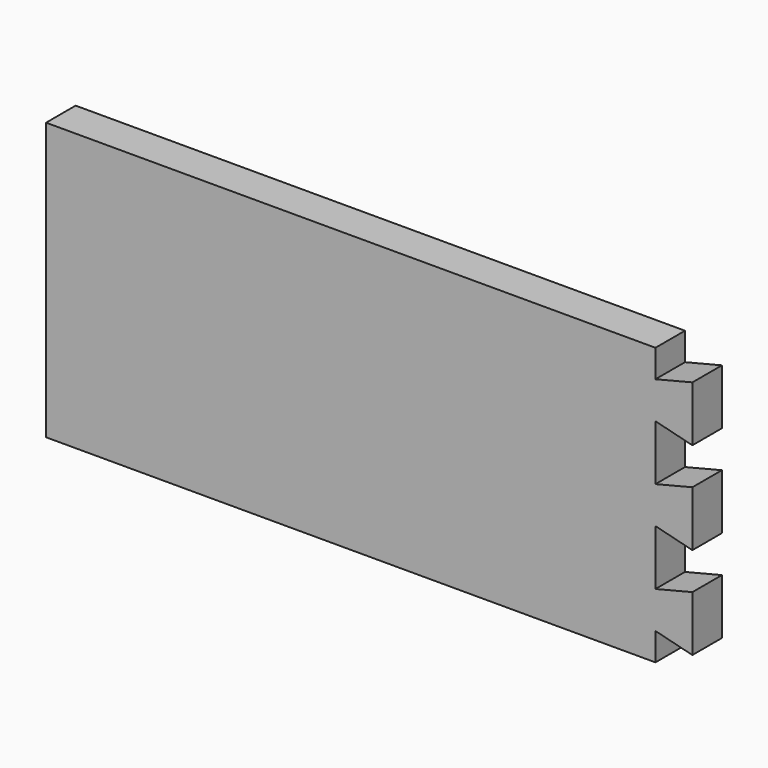
from build123d import *

# Parameters (mm, degrees)
F1_DEPTH = 20
F2_ANGLE = 180


with BuildPart() as f1:
    # F0 (on Front) → F1 (new body)
    with BuildSketch(Plane.XZ):
        Polygon((162.940274, 115), (-167.059726, 115), (-167.059726, 100), (-187.059726, 105), (-187.059726, 75), (-167.059726, 80), (-167.059726, 50), (-187.059726, 55), (-187.059726, 40), (-187.059726, 25), (-167.059726, 30), (-167.059726, 0), (-187.059726, 5), (-187.059726, -25), (-167.059726, -20), (-167.059726, -35), (162.940274, -35), align=None)
    extrude(amount=F1_DEPTH)


with BuildPart() as f1_1:
    # F2: moved
    add(f1.part.rotate(Axis((162.940274, -20, 40), (0, 0, -1)), F2_ANGLE))


solid = f1_1.part
